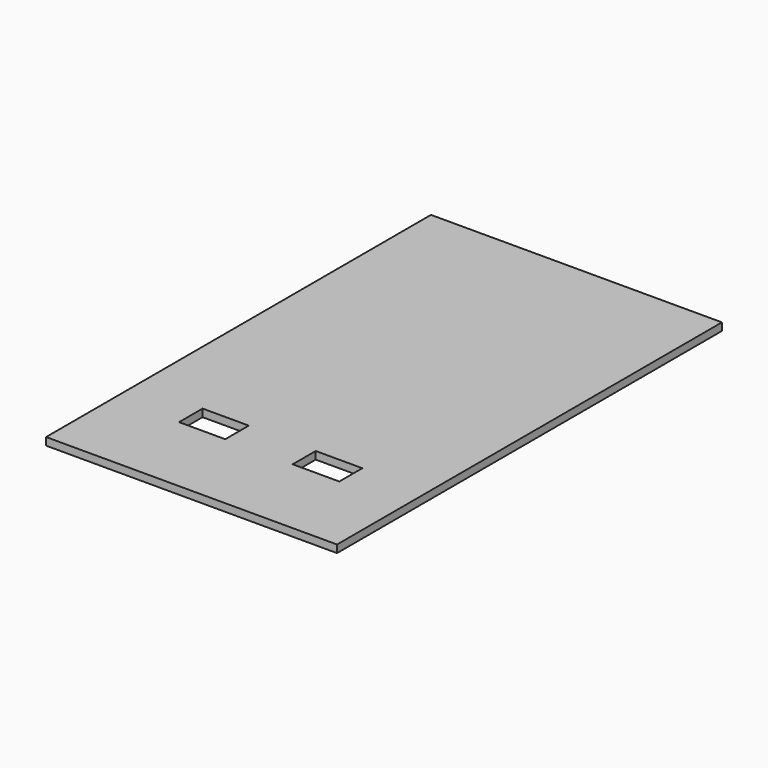
from build123d import *

# Parameters (mm, degrees)
F0_W     = 485.775
F0_H     = 803.275
F1_DEPTH = 12.7
F2_W     = 77.152625
F2_H     = 49.128861
F2_W_2   = 77.847958
F2_H_2   = 48.061118
F3_DEPTH = 25.4


with BuildPart() as f1:
    # F0 (on Top) → F1 (new body)
    with BuildSketch(Plane.XY):
        with Locations((242.8875, 401.6375)):
            Rectangle(F0_W, F0_H)
    extrude(amount=F1_DEPTH)

    # F2 (on face) → F3 (cut)
    with BuildSketch(Plane.XY.offset(12.7)):
        with Locations((147.68172, 165.664121)):
            Rectangle(F2_W, F2_H)
        with Locations((338.068664, 164.771177)):
            Rectangle(F2_W_2, F2_H_2)
    extrude(amount=-F3_DEPTH, mode=Mode.SUBTRACT)


solid = f1.part
